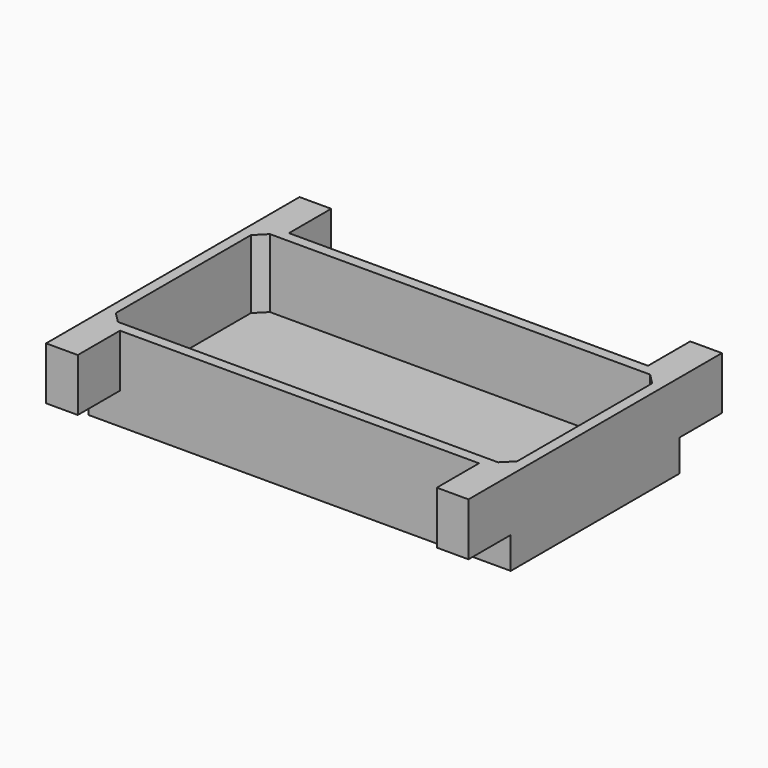
from build123d import *

# Parameters (mm, degrees)
SKETCH_W     = 160
SKETCH_H     = 80
PAD_DEPTH    = 32
POCKET_DEPTH = 26
SKETCH002_W  = 12
SKETCH002_H  = 20
PAD001_DEPTH = 20
SKETCH003_W  = 12
SKETCH003_H  = 20
PAD002_DEPTH = 20


with BuildPart() as part:
    # Sketch → Pad (new body)
    with BuildSketch(Plane.XY):
        with Locations((80, 40)):
            Rectangle(SKETCH_W, SKETCH_H)
    extrude(amount=PAD_DEPTH)

    # Sketch001 (on Face6 of Pad) → Pocket (cut)
    with BuildSketch(Plane.XY.offset(32)):
        Polygon((8, 76), (4, 72), (4, 8), (8, 4), (152, 4), (156, 8), (156, 72), (152, 76), align=None)
    extrude(amount=-POCKET_DEPTH, mode=Mode.SUBTRACT)

    # Sketch002 (on Face6 of Pocket) → Pad001 (join)
    with BuildSketch(Plane.XZ):
        with Locations((154, 22)):
            Rectangle(SKETCH002_W, SKETCH002_H)
        with Locations((6, 22)):
            Rectangle(SKETCH002_W, SKETCH002_H)
    extrude(amount=PAD001_DEPTH)

    # Sketch003 (on Face1 of Pad001) → Pad002 (join)
    with BuildSketch(Plane(origin=(0, 80, 0), x_dir=(-1, 0, 0), z_dir=(0, 1, 0))):
        with Locations((-154, 22)):
            Rectangle(SKETCH003_W, SKETCH003_H)
        with Locations((-6, 22)):
            Rectangle(SKETCH003_W, SKETCH003_H)
    extrude(amount=PAD002_DEPTH)


solid = part.part
